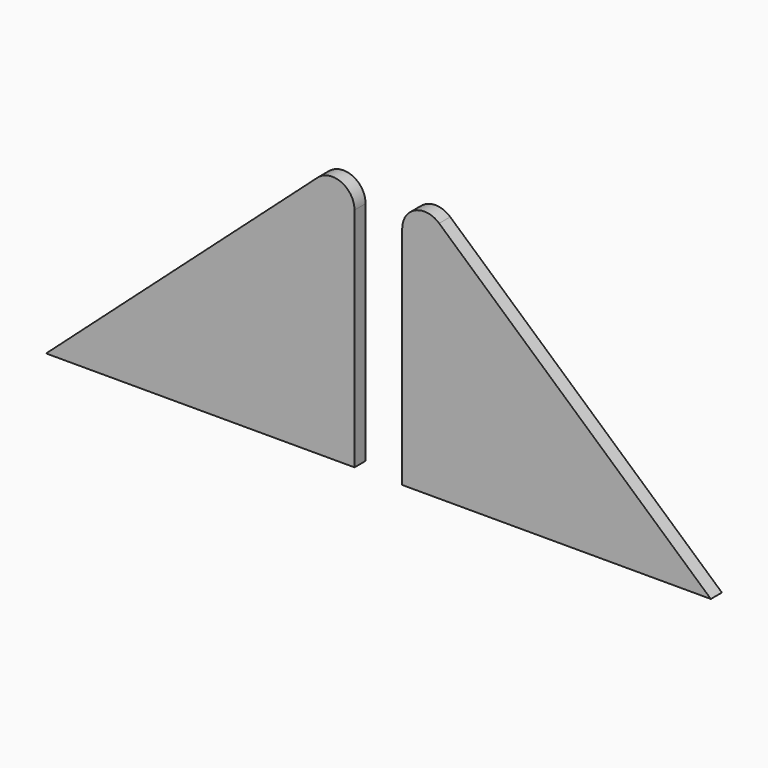
from build123d import *

# Parameters (mm, degrees)
F1_DEPTH = 3.175
F2_R     = 5.08


with BuildPart() as f1:
    # F0 (on Front) → F1 (new body)
    with BuildSketch(Plane.XZ):
        Polygon((-5.579911, 0), (-5.579911, 63.256547), (-76.226421, 0), align=None)
        Polygon((76.04178, 0), (5.349092, 63.06164), (5.349092, 0), align=None)
    extrude(amount=F1_DEPTH)

    # F2
    f2_edges = [f1.edges().sort_by_distance(p)[0] for p in [
        (5.349092, -1.5875, 63.06164),
        (-5.579911, -1.5875, 63.256547),
    ]]
    fillet(f2_edges, radius=F2_R)


solid = f1.part
